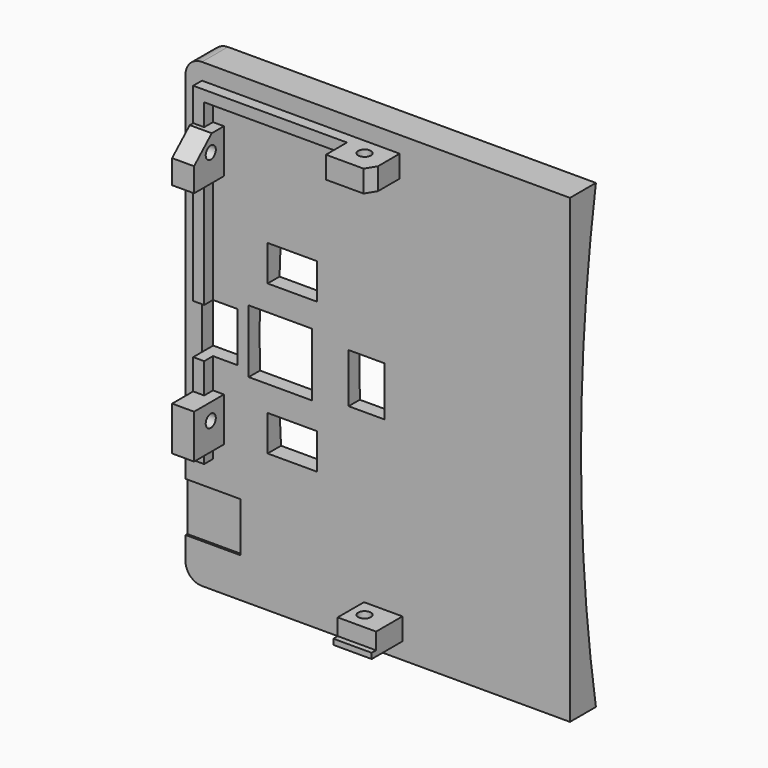
from build123d import *

# Parameters (mm, degrees)
SKETCH009_W             = 84
SKETCH009_H             = 70
PAD002_DEPTH            = 2
SKETCH010_W             = 2
SKETCH010_H             = 7
PAD003_DEPTH            = 2
SKETCH012_W             = 8
SKETCH012_H             = 6.8
PAD004_DEPTH            = 4
SKETCH013_W             = 7
SKETCH013_H             = 6
PAD005_DEPTH            = 4
SKETCH011_W             = 8
SKETCH011_H             = 6.8
PAD006_DEPTH            = 4
SKETCH014_R             = 1.15
POCKET002_DEPTH         = 81.001
SKETCH016_R             = 1.15
POCKET003_DEPTH         = 8.501
SKETCH018_W             = 11.5
SKETCH018_H             = 11.5
POCKET004_DEPTH         = 5
POCKET005_DEPTH         = 5
POCKET006_DEPTH         = 5
SKETCH021_W             = 1
SKETCH021_H             = 7
PAD007_DEPTH            = 1
SKETCH022_W             = 9
SKETCH022_H             = 10
POCKET007_DEPTH         = 0.4
FILLET_R                = 3
BODY002_PITCH_ANGLE     = -90
BODY002_PLACEMENT_ANGLE = 90
PAD001_DEPTH            = 35
SKETCH007_W             = 11.5
SKETCH007_H             = 11.5
POCKET001_DEPTH         = 13
FILLET001_R             = 3
SKETCH025_W             = 6.5
SKETCH025_H             = 9
SKETCH025_W_2           = 9
SKETCH025_H_2           = 6.5
POCKET008_DEPTH         = 8


with BuildPart() as back:
    # Sketch009 → Pad002 (new body)
    with BuildSketch(Plane.XY):
        Rectangle(SKETCH009_W, SKETCH009_H)
    extrude(amount=PAD002_DEPTH)

    # Sketch010 (on Face6 of Pad002) → Pad003 (join)
    with BuildSketch(Plane.XY.offset(2)):
        with Locations((-38, -1)):
            Rectangle(SKETCH010_W, SKETCH010_H)
        Polygon((-21, 32), (39, 32), (39, -4), (37, -4), (37, 30), (-21, 30), align=None)
    extrude(amount=PAD003_DEPTH)

    # Sketch012 (on Face15 of Pad003) → Pad004 (join)
    with BuildSketch(Plane.YZ.offset(39)):
        with Locations((0, 5.4)):
            Rectangle(SKETCH012_W, SKETCH012_H)
    extrude(amount=-PAD004_DEPTH)

    # Sketch013 (on Face9 of Pad004) → Pad005 (join)
    with BuildSketch(Plane(origin=(-39, 0, 0), x_dir=(0, -1, 0), z_dir=(-1, 0, 0))):
        with Locations((1, 5)):
            Rectangle(SKETCH013_W, SKETCH013_H)
    extrude(amount=-PAD005_DEPTH)

    # Sketch011 (on Face16 of Pad003) → Pad006 (join)
    with BuildSketch(Plane(origin=(0, 32, 0), x_dir=(-1, 0, 0), z_dir=(0, 1, 0))):
        with Locations((-29, 5.4)):
            Rectangle(SKETCH011_W, SKETCH011_H)
        with Locations((14, 5.4)):
            Rectangle(SKETCH011_W, SKETCH011_H)
    extrude(amount=-PAD006_DEPTH)

    # Sketch014 (on Face44 of Pad006) → Pocket002 (cut, through all)
    with BuildSketch(Plane.YZ.offset(39)):
        with Locations((0, 5)):
            Circle(SKETCH014_R)
    extrude(amount=-POCKET002_DEPTH, mode=Mode.SUBTRACT)

    # Sketch016 → Pocket003 (cut, through all)
    with BuildSketch(Plane.XZ.offset(-26.5)):
        with Locations((-13, 5)):
            Circle(SKETCH016_R)
        with Locations((30, 5)):
            Circle(SKETCH016_R)
    extrude(amount=-POCKET003_DEPTH, mode=Mode.SUBTRACT)

    # Sketch018 (on Face5 of Pocket003) → Pocket004 (cut)
    with BuildSketch(Plane.XY.offset(2)):
        with Locations((0, 17.75)):
            Rectangle(SKETCH018_W, SKETCH018_H)
    extrude(amount=-POCKET004_DEPTH, mode=Mode.SUBTRACT)

    # Sketch019 (on Face31 of Pocket004) → Pocket005 (cut)
    with BuildSketch(Plane.XZ.offset(-28)):
        Polygon((29.125944, 9.042901), (33.258869, 4.499726), (33.258869, 9.042901), align=None)
    extrude(amount=-POCKET005_DEPTH, mode=Mode.SUBTRACT)

    # Sketch020 (on Face36 of Pocket005) → Pocket006 (cut)
    with BuildSketch(Plane(origin=(35, 0, 0), x_dir=(0, -1, 0), z_dir=(-1, 0, 0))):
        Polygon((2.77547, 8.938441), (6.386171, 3.079567), (6.386171, 8.938441), align=None)
    extrude(amount=-POCKET006_DEPTH, mode=Mode.SUBTRACT)

    # Sketch021 (on Face40 of Pocket006) → Pad007 (join)
    with BuildSketch(Plane.XY.offset(8)):
        with Locations((-38.5, -1)):
            Rectangle(SKETCH021_W, SKETCH021_H)
    extrude(amount=PAD007_DEPTH)

    # Sketch022 (on Face5 of Pocket005) → Pocket007 (cut)
    with BuildSketch(Plane.XY.offset(2)):
        with Locations((-30.3, 30)):
            Rectangle(SKETCH022_W, SKETCH022_H)
    extrude(amount=-POCKET007_DEPTH, mode=Mode.SUBTRACT)

    # Fillet
    fillet_edges = [back.edges().sort_by_distance(p)[0] for p in [
        (42, 35, 1),
        (-42, 35, 1),
    ]]
    fillet(fillet_edges, radius=FILLET_R)


with BuildPart() as back_1:
    # Body002 pitch: moved
    add(back.part.rotate(Axis((0, 0, 0), (0, 1, 0)), BODY002_PITCH_ANGLE))


with BuildPart() as back_2:
    # Body002 placement: moved
    add(back_1.part.rotate(Axis((0, 0, 0), (0, 0, 1)), BODY002_PLACEMENT_ANGLE))


with BuildPart() as curve:
    # Sketch006 → Pad001 (new body, symmetric)
    with BuildSketch(Plane(origin=(0, 0, 0), x_dir=(0, 0, -1), z_dir=(1, 0, 0))):
        with BuildLine():
            ThreePointArc((-42, 3.9), (0, 0.511678), (42, 3.9))
            Line((42, -0.1), (42, 3.9))
            Line((-42, -0.1), (42, -0.1))
            Line((-42, 3.9), (-42, -0.1))
        make_face()
    extrude(amount=PAD001_DEPTH, both=True)

    # Sketch007 (on Face3 of Pad001) → Pocket001 (cut)
    with BuildSketch(Plane.XZ.offset(0.1)):
        with Locations((-17.75, 0)):
            Rectangle(SKETCH007_W, SKETCH007_H)
    extrude(amount=-POCKET001_DEPTH, mode=Mode.SUBTRACT)

    # Fillet001
    fillet001_edges = [curve.edges().sort_by_distance(p)[0] for p in [
        (-35, 1.9, -42),
        (-35, 1.9, 42),
    ]]
    fillet(fillet001_edges, radius=FILLET001_R)

    # Boolean: union Back
    add(back_2.part)

    # Sketch025 (on Face32 of Boolean) → Pocket008 (cut, symmetric)
    with BuildSketch(Plane.XZ.offset(2)):
        with Locations((-28.75, 0)):
            Rectangle(SKETCH025_W, SKETCH025_H)
        with Locations((-15.55, 13.625)):
            Rectangle(SKETCH025_W_2, SKETCH025_H_2)
        with Locations((-2.05, 0)):
            Rectangle(SKETCH025_W, SKETCH025_H)
        with Locations((-15.55, -13.625)):
            Rectangle(SKETCH025_W_2, SKETCH025_H_2)
    extrude(amount=POCKET008_DEPTH, both=True, mode=Mode.SUBTRACT)


solid = curve.part
